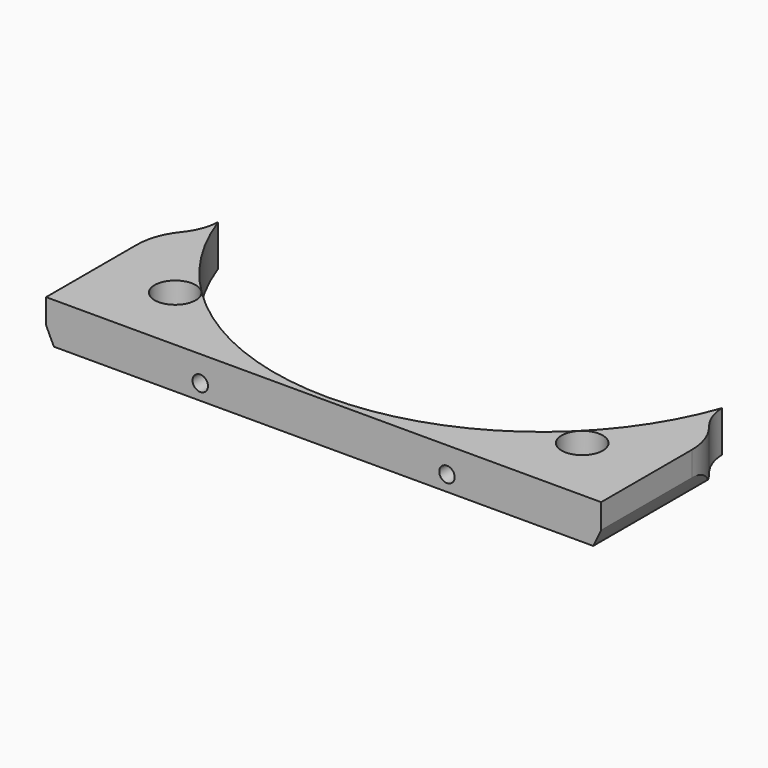
from build123d import *

# Parameters (mm, degrees)
CYLINDER1413_R               = 59
CYLINDER1413_DEPTH           = 40
CYLINDER1343_R               = 1.5
CYLINDER1343_DEPTH           = 20
CYLINDER1339_R               = 1.5
CYLINDER1339_DEPTH           = 20
CYLINDER1345_R               = 1.5
CYLINDER1345_DEPTH           = 20
CYLINDER1340_R               = 1.5
CYLINDER1340_DEPTH           = 20
BOX493_W                     = 6
BOX493_H                     = 2
BOX493_DEPTH                 = 6
BOX490_W                     = 6
BOX490_H                     = 2
BOX490_DEPTH                 = 6
BOX489_W                     = 6
BOX489_H                     = 2
BOX489_DEPTH                 = 6
BOX491_W                     = 6
BOX491_H                     = 2
BOX491_DEPTH                 = 6
CYLINDER1344_R               = 4
CYLINDER1344_DEPTH           = 20
CYLINDER1344_PLACEMENT_ANGLE = 45
CYLINDER1337_R               = 4
CYLINDER1337_DEPTH           = 20
CYLINDER1337_PLACEMENT_ANGLE = 45
CYLINDER1342_R               = 10
CYLINDER1342_DEPTH           = 40
CYLINDER1338_R               = 10
CYLINDER1338_DEPTH           = 40
CYLINDER1341_R               = 52
CYLINDER1341_DEPTH           = 8
BOX492_W                     = 108
BOX492_H                     = 36
BOX492_DEPTH                 = 8
FILLET020_R                  = 12


with BuildPart() as obj1:
    # Cylinder1413 → Cylinder1413 (new body)
    with BuildSketch(Plane(origin=(0, -17, 13), x_dir=(1, 0, 0), z_dir=(0, -1, 0))):
        Circle(CYLINDER1413_R)
    extrude(amount=CYLINDER1413_DEPTH)


with BuildPart() as obj2:
    # Cylinder1343 → Cylinder1343 (new body)
    with BuildSketch(Plane(origin=(24, -40, -5), x_dir=(1, 0, 0), z_dir=(0, -1, 0))):
        Circle(CYLINDER1343_R)
    extrude(amount=CYLINDER1343_DEPTH)


with BuildPart() as obj3:
    # Cylinder1339 → Cylinder1339 (new body)
    with BuildSketch(Plane(origin=(51, -40, 7), x_dir=(1, 0, 0), z_dir=(0, -1, 0))):
        Circle(CYLINDER1339_R)
    extrude(amount=CYLINDER1339_DEPTH)


with BuildPart() as obj4:
    # Cylinder1345 → Cylinder1345 (new body)
    with BuildSketch(Plane(origin=(-51, -40, 7), x_dir=(1, 0, 0), z_dir=(0, -1, 0))):
        Circle(CYLINDER1345_R)
    extrude(amount=CYLINDER1345_DEPTH)


with BuildPart() as compound863:
    # Cylinder1340 → Cylinder1340 (new body)
    with BuildSketch(Plane(origin=(-24, -40, -5), x_dir=(1, 0, 0), z_dir=(0, -1, 0))):
        Circle(CYLINDER1340_R)
    extrude(amount=CYLINDER1340_DEPTH)

    # Compound863: union obj2, obj3, obj4
    add(obj2.part)
    add(obj3.part)
    add(obj4.part)


with BuildPart() as krychle493:
    # Box493 → Box493 (new body)
    with BuildSketch(Plane(origin=(21, -47, -8), x_dir=(1, 0, 0), z_dir=(0, 0, 1))):
        with Locations((3, 1)):
            Rectangle(BOX493_W, BOX493_H)
    extrude(amount=BOX493_DEPTH)


with BuildPart() as krychle490:
    # Box490 → Box490 (new body)
    with BuildSketch(Plane(origin=(48, -45, 4), x_dir=(1, 0, 0), z_dir=(0, 0, 1))):
        with Locations((3, 1)):
            Rectangle(BOX490_W, BOX490_H)
    extrude(amount=BOX490_DEPTH)


with BuildPart() as krychle489:
    # Box489 → Box489 (new body)
    with BuildSketch(Plane(origin=(-54, -45, 4), x_dir=(1, 0, 0), z_dir=(0, 0, 1))):
        with Locations((3, 1)):
            Rectangle(BOX489_W, BOX489_H)
    extrude(amount=BOX489_DEPTH)


with BuildPart() as compound864:
    # Box491 → Box491 (new body)
    with BuildSketch(Plane(origin=(-27, -47, -8), x_dir=(1, 0, 0), z_dir=(0, 0, 1))):
        with Locations((3, 1)):
            Rectangle(BOX491_W, BOX491_H)
    extrude(amount=BOX491_DEPTH)

    # Compound864: union Krychle493, Krychle490, Krychle489
    add(krychle493.part)
    add(krychle490.part)
    add(krychle489.part)


with BuildPart() as obj5:
    # Cylinder1344 → Cylinder1344 (new body)
    with BuildSketch(Plane.XY):
        Circle(CYLINDER1344_R)
    extrude(amount=CYLINDER1344_DEPTH)


with BuildPart() as obj5_1:
    # Cylinder1344 placement: moved
    add(obj5.part.moved(Location((39.6, -39.6, -10))).rotate(Axis((39.6, -39.6, -10), (0, 0, 1)), CYLINDER1344_PLACEMENT_ANGLE))


with BuildPart() as compound866:
    # Cylinder1337 → Cylinder1337 (new body)
    with BuildSketch(Plane.XY):
        Circle(CYLINDER1337_R)
    extrude(amount=CYLINDER1337_DEPTH)


with BuildPart() as compound866_1:
    # Cylinder1337 placement: moved
    add(compound866.part.moved(Location((-39.6, -39.6, -10))).rotate(Axis((-39.6, -39.6, -10), (0, 0, -1)), CYLINDER1337_PLACEMENT_ANGLE))

    # Compound866: union obj5
    add(obj5_1.part)


with BuildPart() as obj6:
    # Cylinder1342 → Cylinder1342 (new body)
    with BuildSketch(Plane(origin=(-59, -17, 0), x_dir=(1, 0, 0), z_dir=(0, 0, 1))):
        Circle(CYLINDER1342_R)
    extrude(amount=CYLINDER1342_DEPTH)


with BuildPart() as compound865:
    # Cylinder1338 → Cylinder1338 (new body)
    with BuildSketch(Plane(origin=(59, -17, 0), x_dir=(1, 0, 0), z_dir=(0, 0, 1))):
        Circle(CYLINDER1338_R)
    extrude(amount=CYLINDER1338_DEPTH)

    # Compound865: union obj6
    add(obj6.part)


with BuildPart() as obj7:
    # Cylinder1341 → Cylinder1341 (new body)
    with BuildSketch(Plane.XY.offset(20)):
        Circle(CYLINDER1341_R)
    extrude(amount=CYLINDER1341_DEPTH)


with BuildPart() as common004:
    # Box492 → Box492 (new body)
    with BuildSketch(Plane(origin=(-54, -53, 20), x_dir=(1, 0, 0), z_dir=(0, 0, 1))):
        with Locations((54, 18)):
            Rectangle(BOX492_W, BOX492_H)
    extrude(amount=BOX492_DEPTH)

    # Cut481: cut obj7
    add(obj7.part, mode=Mode.SUBTRACT)


with BuildPart() as common004_1:
    # Cut481 placement: moved
    add(common004.part.moved(Location((0, 0, -20))))

    # Cut484: cut Compound865
    add(compound865.part, mode=Mode.SUBTRACT)


with BuildPart() as common004_2:
    # Cut484 placement: moved
    add(common004_1.part.moved(Location((0, 0, -8))))

    # Cut482: cut Compound866
    add(compound866_1.part, mode=Mode.SUBTRACT)

    # Cut483: cut Compound864
    add(compound864.part, mode=Mode.SUBTRACT)

    # Cut480: cut Compound863
    add(compound863.part, mode=Mode.SUBTRACT)

    # Fillet020
    fillet020_edges = [common004_2.edges().sort_by_distance(p)[0] for p in [
        (-54, -25.660254, -4),
        (54, -25.660254, -4),
    ]]
    fillet(fillet020_edges, radius=FILLET020_R)


with BuildPart() as common004_3:
    # Fillet020 placement: moved
    add(common004_2.part.moved(Location((0, 0, -6))))

    # Common004: intersect obj1
    add(obj1.part, mode=Mode.INTERSECT)


solid = common004_3.part
